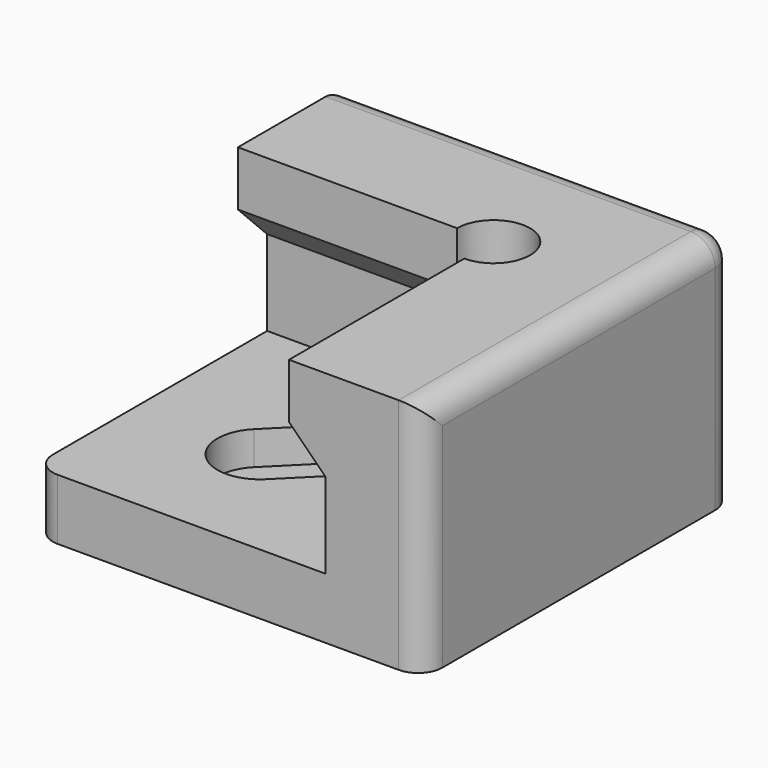
from build123d import *

# Parameters (mm, degrees)
F0_W     = 32
F0_H     = 32
F1_DEPTH = 5
F3_DEPTH = 14.5
F4_DEPTH = 2.75
F7_R     = 2.9999901718
F8_DEPTH = 14
F9_R     = 2


with BuildPart() as f1:
    # F0 (on Top) → F1 (new body)
    with BuildSketch(Plane.XY):
        Rectangle(F0_W, F0_H)
        with BuildLine():
            ThreePointArc((-4.5961940777, -6.7175144213), (-6.7175144213, -6.7175144213), (-6.7175144213, -4.5961940777))
            Line((-6.7175144213, -4.5961940777), (1.767766953, 3.8890872965))
            ThreePointArc((1.767766953, 3.8890872965), (3.8890872965, 3.8890872965), (3.8890872965, 1.767766953))
            Line((3.8890872965, 1.767766953), (-4.5961940777, -6.7175144213))
        make_face(mode=Mode.SUBTRACT)
    extrude(amount=F1_DEPTH)

    # F2 (on face) → F3 (join)
    with BuildSketch(Plane.XY.offset(5)):
        Polygon((-16, 16), (-16, 8), (8, 8), (8, -16), (16, -16), (16, 16), align=None)
    extrude(amount=F3_DEPTH)

    # F2 (on face) → F4 (cut)
    with BuildSketch(Plane.XY.offset(5)):
        with BuildLine():
            Line((0.3535533906, 5.3033008589), (-8.1317279836, -3.1819805153))
            ThreePointArc((-8.1317279836, -3.1819805153), (-8.1317279836, -8.1317279836), (-3.1819805153, -8.1317279836))
            Line((-3.1819805153, -8.1317279836), (5.3033008589, 0.3535533906))
            ThreePointArc((5.3033008589, 0.3535533906), (5.3033008589, 5.3033008589), (0.3535533906, 5.3033008589))
        make_face()
        with BuildLine():
            Line((-6.7175144213, -4.5961940777), (1.767766953, 3.8890872965))
            ThreePointArc((1.767766953, 3.8890872965), (3.8890872965, 3.8890872965), (3.8890872965, 1.767766953))
            Line((3.8890872965, 1.767766953), (-4.5961940777, -6.7175144213))
            ThreePointArc((-4.5961940777, -6.7175144213), (-6.7175144213, -6.7175144213), (-6.7175144213, -4.5961940777))
        make_face(mode=Mode.SUBTRACT)
    extrude(amount=-F4_DEPTH, mode=Mode.SUBTRACT)

    # F6: sweep along a path in F6_path
    with BuildLine(Plane(origin=(8, 8, 19.5), x_dir=(0, 1, 0), z_dir=(0, 0, 1))) as f6_path:
        Line((0, 24), (0, 0))
        Line((0, 0), (-24, 0))
    # F5 (on face) → F6 (sweep)
    with BuildSketch(Plane.XZ.offset(16)):
        Polygon((8, 12), (8, 19.5), (5, 19.5), (5, 15), align=None)
    sweep(path=f6_path.line, transition=Transition.RIGHT)

    # F7 (on face) → F8 (cut)
    with BuildSketch(Plane.XY.offset(19.5)):
        with Locations((5, 5)):
            Circle(F7_R)
    extrude(amount=-F8_DEPTH, mode=Mode.SUBTRACT)

    # F9
    f9_edges = [f1.edges().sort_by_distance(p)[0] for p in [
        (16, -16, 9.75),
        (16, 16, 9.75),
        (-16, 16, 9.75),
        (0, 16, 19.5),
        (16, 0, 19.5),
        (-16, -16, 2.5),
    ]]
    fillet(f9_edges, radius=F9_R)


solid = f1.part
